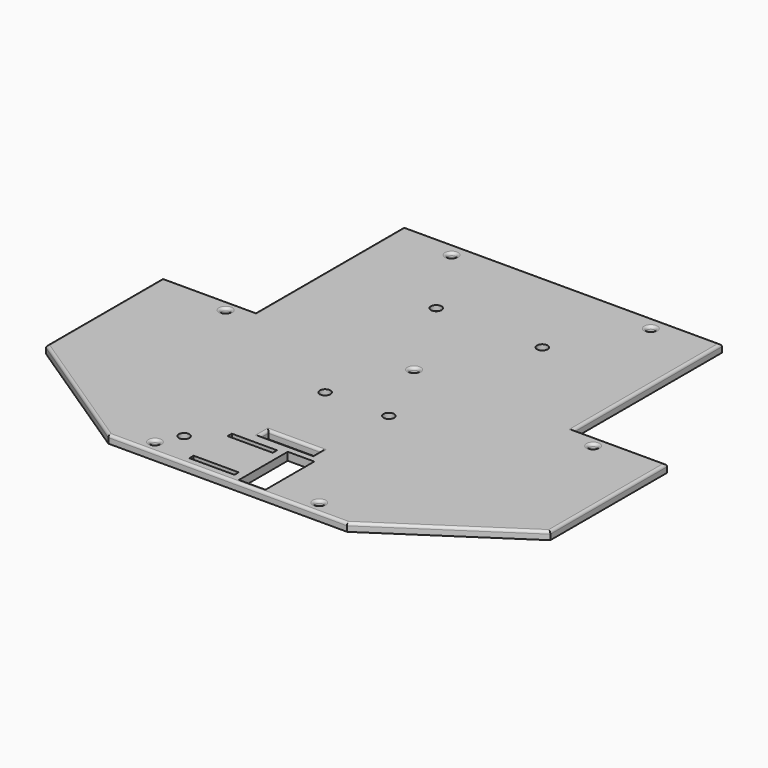
from build123d import *

# Parameters (mm, degrees)
SKETCH050_W      = 10
SKETCH050_H      = 23
EXTRUDE053_DEPTH = 3.5
SKETCH047_R      = 2
EXTRUDE048_DEPTH = 5
SKETCH033_R      = 2
EXTRUDE032_DEPTH = 5
SKETCH028_W      = 17
SKETCH028_H      = 2
EXTRUDE028_DEPTH = 5
SKETCH026_R      = 2
EXTRUDE027_DEPTH = 10
SKETCH025_R      = 1.5
SKETCH025_W      = 20
SKETCH025_H      = 4
EXTRUDE026_DEPTH = 3
FILLET_R         = 1


with BuildPart() as motor_gear_lid_gap:
    # Sketch050 (on Face8 of Cut015) → Extrude053 (new body, symmetric)
    with BuildSketch(Plane.XY.offset(38)):
        with Locations((8.044771, -110.237558)):
            Rectangle(SKETCH050_W, SKETCH050_H)
    extrude(amount=EXTRUDE053_DEPTH, both=True)


with BuildPart() as middle_holder_screw_holes:
    # Sketch047 (on Face8 of Cut010) → Extrude048 (new body, symmetric)
    with BuildSketch(Plane.XY.offset(38)):
        with Locations((12.009109, -62.30328)):
            Circle(SKETCH047_R)
        with Locations((-12.009109, -62.30328)):
            Circle(SKETCH047_R)
    extrude(amount=EXTRUDE048_DEPTH, both=True)


with BuildPart() as lid_weapon_holes:
    # Sketch033 (on Face10 of Extrude031) → Extrude032 (new body, symmetric)
    with BuildSketch(Plane.XY.offset(41)):
        with Locations((19.992186, 0)):
            Circle(SKETCH033_R)
        with Locations((-19.992186, 0)):
            Circle(SKETCH033_R)
    extrude(amount=EXTRUDE032_DEPTH, both=True)


with BuildPart() as motor_flange_gap:
    # Sketch028 (on Face8 of Cut007) → Extrude028 (new body, symmetric)
    with BuildSketch(Plane.XY.offset(38)):
        with Locations((-8.5, -101)):
            Rectangle(SKETCH028_W, SKETCH028_H)
        with Locations((-8.5, -119)):
            Rectangle(SKETCH028_W, SKETCH028_H)
    extrude(amount=EXTRUDE028_DEPTH, both=True)


with BuildPart() as weapon_wire_slot:
    # Sketch026 (on Face8 of Fillet) → Extrude027 (new body)
    with BuildSketch(Plane.XY.offset(38)):
        with Locations((0, -110)):
            Circle(SKETCH026_R)
    extrude(amount=EXTRUDE027_DEPTH)


with BuildPart() as weapon_wire_slot_1:
    # Extrude027 placement: moved
    add(weapon_wire_slot.part.moved(Location((-27, 0, -6.5))))


with BuildPart() as lid:
    # Sketch025 (on Face86 of Fusion015) → Extrude026 (new body)
    with BuildSketch(Plane.XY.offset(35)):
        Polygon((-59.987026, 34.827255), (59.804127, 34.827255), (59.804127, -34.966816), (94.999252, -34.966816), (94.999252, -89.997261), (44.964386, -123.178299), (-45.006824, -123.178299), (-94.999153, -90.011429), (-94.999153, -35.007931), (-59.987026, -35.007931), align=None)
        with Locations((37.418976, 29.299974)):
            Circle(SKETCH025_R, mode=Mode.SUBTRACT)
        with Locations((-37.612221, 29.279016)):
            Circle(SKETCH025_R, mode=Mode.SUBTRACT)
        with Locations((-0.59146, -34.690746)):
            Circle(SKETCH025_R, mode=Mode.SUBTRACT)
        with Locations((70.904549, -39.710636)):
            Circle(SKETCH025_R, mode=Mode.SUBTRACT)
        with Locations((30.57519, -118.303795)):
            Circle(SKETCH025_R, mode=Mode.SUBTRACT)
        with Locations((-31.368124, -118.305359)):
            Circle(SKETCH025_R, mode=Mode.SUBTRACT)
        with Locations((-67.592262, -39.70982)):
            Circle(SKETCH025_R, mode=Mode.SUBTRACT)
        with Locations((0.040903, -93.560349)):
            Rectangle(SKETCH025_W, SKETCH025_H, mode=Mode.SUBTRACT)
    extrude(amount=EXTRUDE026_DEPTH)

    # Fillet
    fillet_edges = [lid.edges().sort_by_distance(p)[0] for p in [
        (-0.09145, 34.827255, 38),
        (59.804127, -0.069781, 38),
        (77.40169, -34.966816, 38),
        (94.999252, -62.482038, 38),
        (69.981819, -106.58778, 38),
        (-0.021219, -123.178299, 38),
        (-70.002989, -106.594864, 38),
        (-94.999153, -62.50968, 38),
        (-77.493089, -35.007931, 38),
        (-59.987026, -0.090338, 38),
        (0.040903, -91.560349, 38),
        (10.040903, -93.560349, 38),
        (0.040903, -95.560349, 38),
        (-9.959097, -93.560349, 38),
        (-69.092262, -39.70982, 38),
        (-32.868124, -118.305359, 38),
        (29.07519, -118.303795, 38),
        (69.404549, -39.710636, 38),
        (-2.09146, -34.690746, 38),
        (-39.112221, 29.279016, 38),
        (35.918976, 29.299974, 38),
    ]]
    fillet(fillet_edges, radius=FILLET_R)

    # Cut007: cut Weapon Wire slot
    add(weapon_wire_slot_1.part, mode=Mode.SUBTRACT)

    # Cut008: cut Motor Flange Gap
    add(motor_flange_gap.part, mode=Mode.SUBTRACT)

    # Cut010: cut Lid Weapon Holes
    add(lid_weapon_holes.part, mode=Mode.SUBTRACT)

    # Cut015: cut Middle Holder Screw Holes
    add(middle_holder_screw_holes.part, mode=Mode.SUBTRACT)

    # Cut016: cut Motor Gear Lid Gap
    add(motor_gear_lid_gap.part, mode=Mode.SUBTRACT)


solid = lid.part
